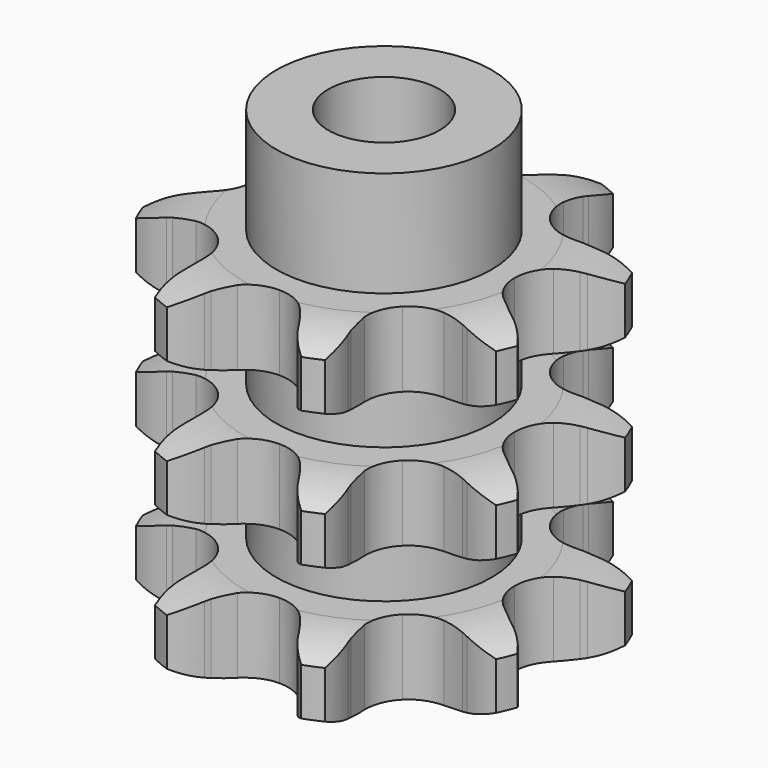
from build123d import *

# Parameters (mm, degrees)
PAD_DEPTH         = 49.8
SKETCH001_R       = 15.5
PAD001_DEPTH      = 65
SKETCH002_R       = 8
POCKET_DEPTH      = 0.001
POCKET_DEPTH_BACK = 65.001


with BuildPart() as part:
    # Sprocket → Pad (new body)
    with BuildSketch(Plane.XY):
        with BuildLine():
            ThreePointArc((-11.611878, 28.033554), (-8.844692, 26.332952), (-6.736351, 23.862271))
            Line((-6.736351, 23.862271), (-6.317841, 23.179325))
            ThreePointArc((-6.317841, 23.179325), (-5.466767, 21.929355), (-4.499806, 20.766712))
            ThreePointArc((-4.499806, 20.766712), (-2.458074, 19.303627), (0, 18.786749))
            ThreePointArc((0, 18.786749), (2.458074, 19.303627), (4.499806, 20.766712))
            ThreePointArc((4.499806, 20.766712), (5.466767, 21.929355), (6.317841, 23.179325))
            Line((6.317841, 23.179325), (6.736351, 23.862271))
            ThreePointArc((6.736351, 23.862271), (8.844692, 26.332952), (11.611878, 28.033554))
            ThreePointArc((11.611878, 28.033554), (12.366067, 24.874351), (12.109854, 21.636493))
            Line((12.109854, 21.636493), (11.92287, 20.857646))
            ThreePointArc((11.92287, 20.857646), (11.640808, 19.371983), (11.502439, 17.866126))
            ThreePointArc((11.502439, 17.866126), (11.911605, 15.387846), (13.284238, 13.284238))
            ThreePointArc((13.284238, 13.284238), (15.387846, 11.911605), (17.866126, 11.502439))
            Line((17.866126, 11.502439), (20.857646, 11.92287))
            ThreePointArc((20.857646, 11.92287), (21.245881, 12.021311), (21.636493, 12.109854))
            ThreePointArc((21.636493, 12.109854), (24.874351, 12.366067), (28.033554, 11.611878))
            ThreePointArc((28.033554, 11.611878), (26.332952, 8.844692), (23.862271, 6.736351))
            Line((23.862271, 6.736351), (23.179325, 6.317841))
            ThreePointArc((23.179325, 6.317841), (21.929355, 5.466767), (20.766712, 4.499806))
            ThreePointArc((20.766712, 4.499806), (19.303627, 2.458074), (18.786749, 0))
            ThreePointArc((18.786749, 0), (19.303627, -2.458074), (20.766712, -4.499806))
            Line((20.766712, -4.499806), (23.179325, -6.317841))
            ThreePointArc((23.179325, -6.317841), (23.523457, -6.522756), (23.862271, -6.736351))
            ThreePointArc((23.862271, -6.736351), (26.332952, -8.844692), (28.033554, -11.611878))
            ThreePointArc((28.033554, -11.611878), (24.874351, -12.366067), (21.636493, -12.109854))
            Line((21.636493, -12.109854), (20.857646, -11.92287))
            ThreePointArc((20.857646, -11.92287), (19.371983, -11.640808), (17.866126, -11.502439))
            ThreePointArc((17.866126, -11.502439), (15.387846, -11.911605), (13.284238, -13.284238))
            ThreePointArc((13.284238, -13.284238), (11.911605, -15.387846), (11.502439, -17.866126))
            Line((11.502439, -17.866126), (11.92287, -20.857646))
            ThreePointArc((11.92287, -20.857646), (12.021311, -21.245881), (12.109854, -21.636493))
            ThreePointArc((12.109854, -21.636493), (12.366067, -24.874351), (11.611878, -28.033554))
            ThreePointArc((11.611878, -28.033554), (8.844692, -26.332952), (6.736351, -23.862271))
            Line((6.736351, -23.862271), (6.317841, -23.179325))
            ThreePointArc((6.317841, -23.179325), (5.466767, -21.929355), (4.499806, -20.766712))
            ThreePointArc((4.499806, -20.766712), (2.458074, -19.303627), (0, -18.786749))
            ThreePointArc((0, -18.786749), (-2.458074, -19.303627), (-4.499806, -20.766712))
            Line((-4.499806, -20.766712), (-6.317841, -23.179325))
            ThreePointArc((-6.317841, -23.179325), (-6.522756, -23.523457), (-6.736351, -23.862271))
            ThreePointArc((-6.736351, -23.862271), (-8.844692, -26.332952), (-11.611878, -28.033554))
            ThreePointArc((-11.611878, -28.033554), (-12.366067, -24.874351), (-12.109854, -21.636493))
            Line((-12.109854, -21.636493), (-11.92287, -20.857646))
            ThreePointArc((-11.92287, -20.857646), (-11.640808, -19.371983), (-11.502439, -17.866126))
            ThreePointArc((-11.502439, -17.866126), (-11.911605, -15.387846), (-13.284238, -13.284238))
            ThreePointArc((-13.284238, -13.284238), (-15.387846, -11.911605), (-17.866126, -11.502439))
            Line((-17.866126, -11.502439), (-20.857646, -11.92287))
            ThreePointArc((-20.857646, -11.92287), (-21.245881, -12.021311), (-21.636493, -12.109854))
            ThreePointArc((-21.636493, -12.109854), (-24.874351, -12.366067), (-28.033554, -11.611878))
            ThreePointArc((-28.033554, -11.611878), (-26.332952, -8.844692), (-23.862271, -6.736351))
            Line((-23.862271, -6.736351), (-23.179325, -6.317841))
            ThreePointArc((-23.179325, -6.317841), (-21.929355, -5.466767), (-20.766712, -4.499806))
            ThreePointArc((-20.766712, -4.499806), (-19.303627, -2.458074), (-18.786749, 0))
            ThreePointArc((-18.786749, 0), (-19.303627, 2.458074), (-20.766712, 4.499806))
            Line((-20.766712, 4.499806), (-23.179325, 6.317841))
            ThreePointArc((-23.179325, 6.317841), (-23.523457, 6.522756), (-23.862271, 6.736351))
            ThreePointArc((-23.862271, 6.736351), (-26.332952, 8.844692), (-28.033554, 11.611878))
            ThreePointArc((-28.033554, 11.611878), (-24.874351, 12.366067), (-21.636493, 12.109854))
            Line((-21.636493, 12.109854), (-20.857646, 11.92287))
            ThreePointArc((-20.857646, 11.92287), (-19.371983, 11.640808), (-17.866126, 11.502439))
            ThreePointArc((-17.866126, 11.502439), (-15.387846, 11.911605), (-13.284238, 13.284238))
            ThreePointArc((-13.284238, 13.284238), (-11.911605, 15.387846), (-11.502439, 17.866126))
            Line((-11.502439, 17.866126), (-11.92287, 20.857646))
            ThreePointArc((-11.92287, 20.857646), (-12.021311, 21.245881), (-12.109854, 21.636493))
            ThreePointArc((-12.109854, 21.636493), (-12.366067, 24.874351), (-11.611878, 28.033554))
        make_face()
    extrude(amount=PAD_DEPTH)

    # Sketch → Groove (revolve, cut)
    with BuildSketch(Plane.XZ):
        with BuildLine():
            ThreePointArc((20.164719, 0), (24.523618, 0.506758), (28.65, 2))
            Line((28.65, 2), (28.65, 8.8))
            ThreePointArc((28.65, 8.8), (24.523618, 10.293242), (20.164719, 10.8))
            Line((15.5, 10.8), (20.164719, 10.8))
            Line((15.5, 10.8), (15.5, 19.5))
            Line((15.5, 19.5), (20.164719, 19.5))
            ThreePointArc((20.164719, 19.5), (24.523618, 20.006758), (28.65, 21.5))
            Line((28.65, 28.3), (28.65, 21.5))
            ThreePointArc((28.65, 28.3), (24.523618, 29.793242), (20.164719, 30.3))
            Line((15.5, 30.3), (20.164719, 30.3))
            Line((15.5, 39), (15.5, 30.3))
            Line((20.164719, 39), (15.5, 39))
            ThreePointArc((20.164719, 39), (24.523618, 39.506758), (28.65, 41))
            Line((28.65, 41), (28.65, 47.8))
            ThreePointArc((28.65, 47.8), (24.523618, 49.293242), (20.164719, 49.8))
            Line((20.164719, 49.8), (38.65, 49.8))
            Line((38.65, 49.8), (38.65, 0))
            Line((20.164719, 0), (38.65, 0))
        make_face()
    revolve(axis=Axis((0, 0, 0), (0, 0, 1)), mode=Mode.SUBTRACT)

    # Sketch001 → Pad001 (join)
    with BuildSketch(Plane.XY):
        Circle(SKETCH001_R)
    extrude(amount=PAD001_DEPTH)

    # Sketch002 → Pocket (cut, two sides)
    with BuildSketch(Plane.XY) as pocket_sk:
        Circle(SKETCH002_R)
    extrude(amount=-POCKET_DEPTH, mode=Mode.SUBTRACT)
    extrude(pocket_sk.sketch, amount=POCKET_DEPTH_BACK, mode=Mode.SUBTRACT)


solid = part.part
